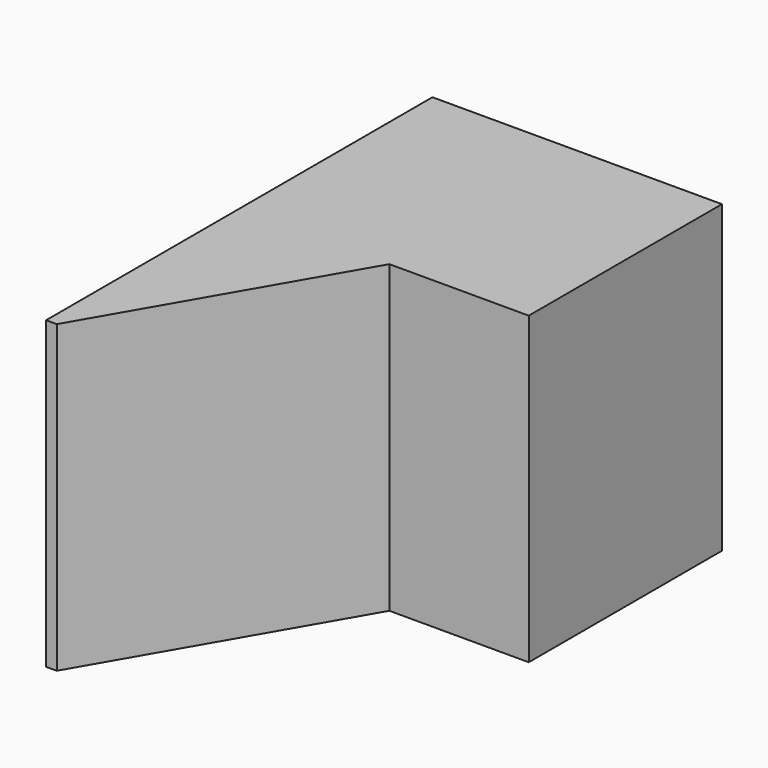
from build123d import *

# Parameters (mm, degrees)
F0_W     = 40.247113
F0_H     = 67.13745
F1_DEPTH = 42.423626
F3_DEPTH = 68.109216


with BuildPart() as f1:
    # F0 (on Top) → F1 (new body)
    with BuildSketch(Plane.XY):
        with Locations((20.123556, -33.568725)):
            Rectangle(F0_W, F0_H)
    extrude(amount=F1_DEPTH)

    # F2 (on face) → F3 (cut)
    with BuildSketch(Plane.XY.offset(42.423626)):
        Polygon((59.628025, -33.568725), (20.8662, -33.568725), (1.485288, -67.13745), (20.8662, -100.706175), (59.628025, -100.706175), (79.008937, -67.13745), align=None)
    extrude(amount=-F3_DEPTH, mode=Mode.SUBTRACT)


solid = f1.part
